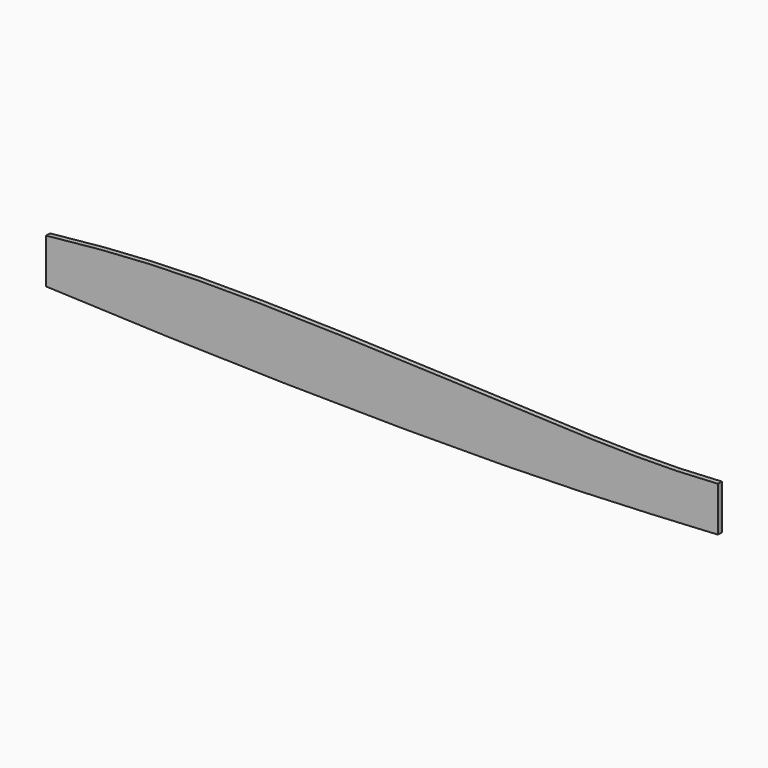
from build123d import *

# Parameters (mm, degrees)
F1_DEPTH = 22


with BuildPart() as f1:
    # F0 (on Front) → F1 (new body)
    with BuildSketch(Plane.XZ):
        with BuildLine():
            add(Edge.make_bspline(
                [(-1471.9779274989, 100), (-1254.0383418697, 124.2186642982), (-746.3079146851, 169.5580918742), (763.3402755779, 94.9902041901), (1278.0792569911, 82.0985342071), (1528.0220725011, 100)],
                knots=[0, 0, 0, 0, 0.2889331465, 0.701431529, 1, 1, 1, 1], degree=3))
            Line((-1471.9779274989, 100), (-1471.9779274989, -100))
            add(Edge.make_bspline(
                [(-1471.9779274989, -100), (-1202.2993721527, -111.1465562239), (-605.39286607, -135.8183434258), (672.8477473554, -147.888206323), (1262.5998150596, -114.8631635134), (1528.0220725011, -100)],
                knots=[0, 0, 0, 0, 0.3118750937, 0.6903043227, 1, 1, 1, 1], degree=3))
            Line((1528.0220725011, -100), (1528.0220725011, 100))
        make_face()
    extrude(amount=F1_DEPTH)


solid = f1.part
